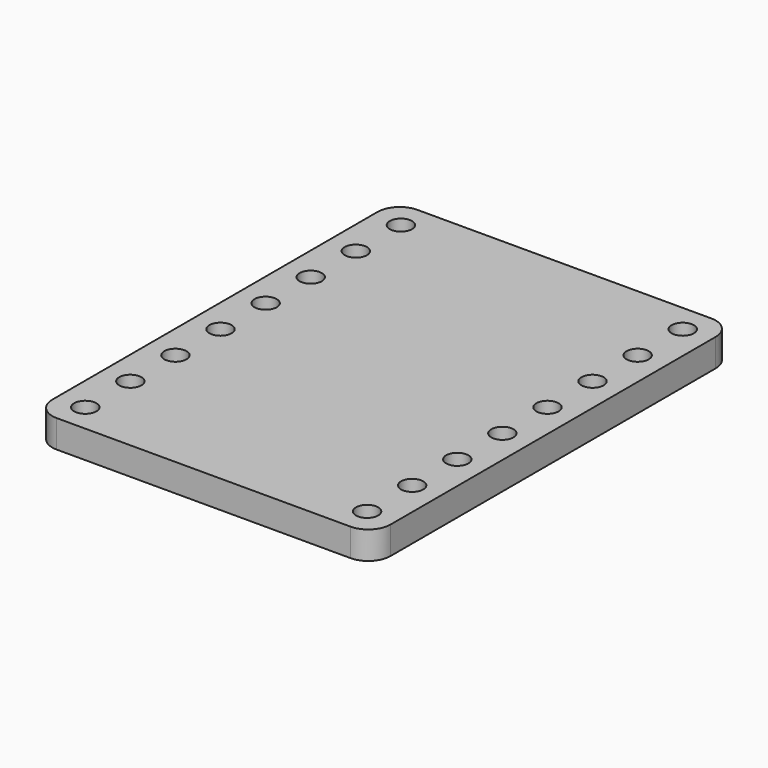
from build123d import *

# Parameters (mm, degrees)
F0_W     = 15.24
F0_H     = 20.32
F0_R     = 0.5
F1_DEPTH = 1.25
F2_R     = 1


with BuildPart() as f1:
    # F0 (on Top) → F1 (new body)
    with BuildSketch(Plane.XY):
        Rectangle(F0_W, F0_H)
        with Locations((-6.35, -8.89)):
            Circle(F0_R, mode=Mode.SUBTRACT)
        with Locations((-6.35, -6.35)):
            Circle(F0_R, mode=Mode.SUBTRACT)
        with Locations((-6.35, -3.81)):
            Circle(F0_R, mode=Mode.SUBTRACT)
        with Locations((-6.35, -1.27)):
            Circle(F0_R, mode=Mode.SUBTRACT)
        with Locations((6.35, -8.89)):
            Circle(F0_R, mode=Mode.SUBTRACT)
        with Locations((6.35, -6.35)):
            Circle(F0_R, mode=Mode.SUBTRACT)
        with Locations((6.35, -3.81)):
            Circle(F0_R, mode=Mode.SUBTRACT)
        with Locations((6.35, -1.27)):
            Circle(F0_R, mode=Mode.SUBTRACT)
        with Locations((-6.35, 1.27)):
            Circle(F0_R, mode=Mode.SUBTRACT)
        with Locations((-6.35, 3.81)):
            Circle(F0_R, mode=Mode.SUBTRACT)
        with Locations((-6.35, 6.35)):
            Circle(F0_R, mode=Mode.SUBTRACT)
        with Locations((-6.35, 8.89)):
            Circle(F0_R, mode=Mode.SUBTRACT)
        with Locations((6.35, 1.27)):
            Circle(F0_R, mode=Mode.SUBTRACT)
        with Locations((6.35, 3.81)):
            Circle(F0_R, mode=Mode.SUBTRACT)
        with Locations((6.35, 6.35)):
            Circle(F0_R, mode=Mode.SUBTRACT)
        with Locations((6.35, 8.89)):
            Circle(F0_R, mode=Mode.SUBTRACT)
    extrude(amount=F1_DEPTH)

    # F2
    f2_edges = [f1.edges().sort_by_distance(p)[0] for p in [
        (-7.62, 10.16, 0.625),
        (-7.62, -10.16, 0.625),
        (7.62, -10.16, 0.625),
        (7.62, 10.16, 0.625),
    ]]
    fillet(f2_edges, radius=F2_R)


solid = f1.part
